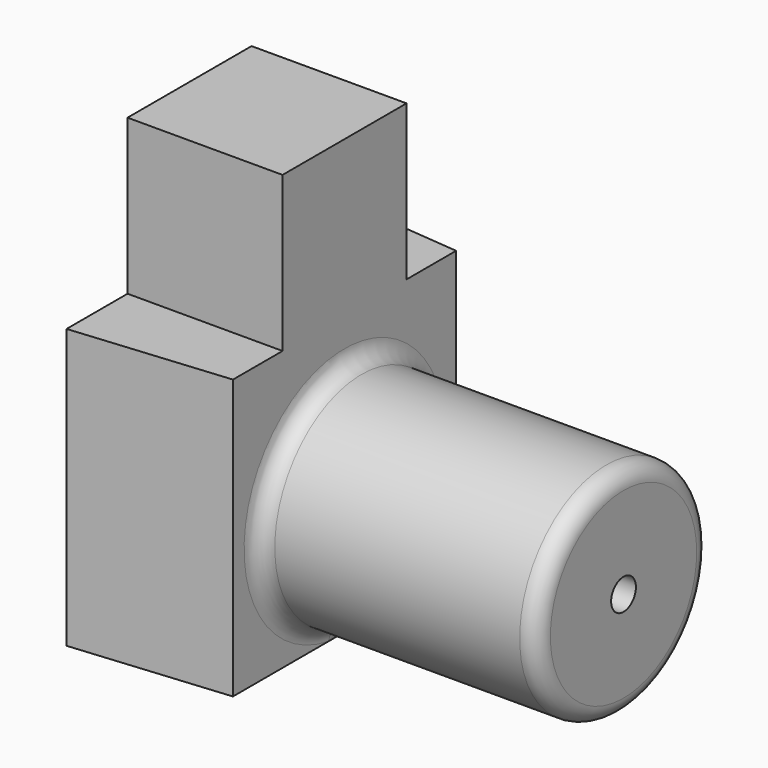
from build123d import *

# Parameters (mm, degrees)
F0_W     = 5
F0_H     = 5
F1_DEPTH = 14
F2_DEPTH = 9
F3_R     = 3.5
F3_R_2   = 0.5
F4_DEPTH = 9
F5_R     = 0.55


with BuildPart() as f1:
    # F0 (on Top) → F1 (new body)
    with BuildSketch(Plane.XY):
        Rectangle(F0_W, F0_H)
    extrude(amount=F1_DEPTH)

    # F0 (on Top) → F2 (join)
    with BuildSketch(Plane.XY):
        Polygon((-2.5, 2.5), (2.5, 2.5), (2.5, 4.5), (-2.5, 4.9594354583), align=None)
        Polygon((2.5, -4.5), (2.5, -2.5), (-2.5, -2.5), (-2.5, -4.9594354583), align=None)
    extrude(amount=F2_DEPTH)

    # F3 (on face) → F4 (join)
    with BuildSketch(Plane.YZ.offset(2.5)):
        with Locations((0, 4)):
            Circle(F3_R)
        with Locations((0, 4)):
            Circle(F3_R_2, mode=Mode.SUBTRACT)
    extrude(amount=F4_DEPTH)

    # F5
    f5_edges = [f1.edges().sort_by_distance(p)[0] for p in [
        (2.5, -3.5, 4),
        (11.5, -3.5, 4),
    ]]
    fillet(f5_edges, radius=F5_R)


solid = f1.part
